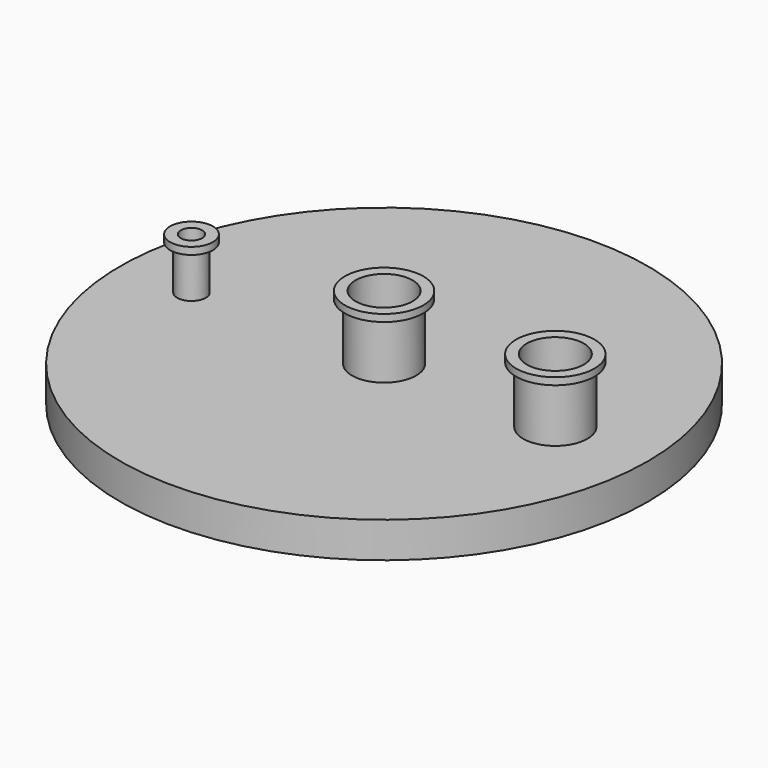
from build123d import *

# Parameters (mm, degrees)
F0_R        = 185
F1_DEPTH    = 25
F2_R        = 22.5
F2_R_2      = 20
F3_DEPTH    = 40
F2_R_3      = 10
F2_R_4      = 7.5
F4_DEPTH    = 36
F3_FACE_R   = 22.5
F3_FACE_R_2 = 20
F5_DEPTH    = 5
F6_R        = 27.5
F6_R_2      = 20
F7_DEPTH    = 5
F8_R        = 15
F8_R_2      = 7.5
F9_DEPTH    = 5


with BuildPart() as f1:
    # F0 (on Top) → F1 (new body)
    with BuildSketch(Plane.XY):
        Circle(F0_R)
    extrude(amount=F1_DEPTH)

    # F2 (on face) → F3 (join)
    with BuildSketch(Plane.XY.offset(25)):
        Circle(F2_R)
        Circle(F2_R_2, mode=Mode.SUBTRACT)
        with Locations((120, 0)):
            Circle(F2_R)
        with Locations((120, 0)):
            Circle(F2_R_2, mode=Mode.SUBTRACT)
    extrude(amount=F3_DEPTH)

    # F2 (on face) → F4 (join)
    with BuildSketch(Plane.XY.offset(25)):
        with Locations((120, 0)):
            Circle(F2_R)
        with Locations((120, 0)):
            Circle(F2_R_2, mode=Mode.SUBTRACT)
        Circle(F2_R)
        Circle(F2_R_2, mode=Mode.SUBTRACT)
        with Locations((-135, 0)):
            Circle(F2_R_3)
        with Locations((-135, 0)):
            Circle(F2_R_4, mode=Mode.SUBTRACT)
    extrude(amount=F4_DEPTH)

    # F3_face (on face) → F5 (join)
    with BuildSketch(Plane.XY.offset(65)):
        Circle(F3_FACE_R)
        Circle(F3_FACE_R_2, mode=Mode.SUBTRACT)
        with Locations((120, 0)):
            Circle(F3_FACE_R)
        with Locations((120, 0)):
            Circle(F3_FACE_R_2, mode=Mode.SUBTRACT)
    extrude(amount=F5_DEPTH)

    # F6 (on face) → F7 (join)
    with BuildSketch(Plane.XY.offset(70)):
        with Locations((120, 0)):
            Circle(F6_R)
        with Locations((120, 0)):
            Circle(F6_R_2, mode=Mode.SUBTRACT)
        Circle(F6_R)
        Circle(F6_R_2, mode=Mode.SUBTRACT)
    extrude(amount=-F7_DEPTH)

    # F8 (on face) → F9 (join)
    with BuildSketch(Plane.XY.offset(61)):
        with Locations((-135, 0)):
            Circle(F8_R)
        with Locations((-135, 0)):
            Circle(F8_R_2, mode=Mode.SUBTRACT)
    extrude(amount=-F9_DEPTH)


solid = f1.part
